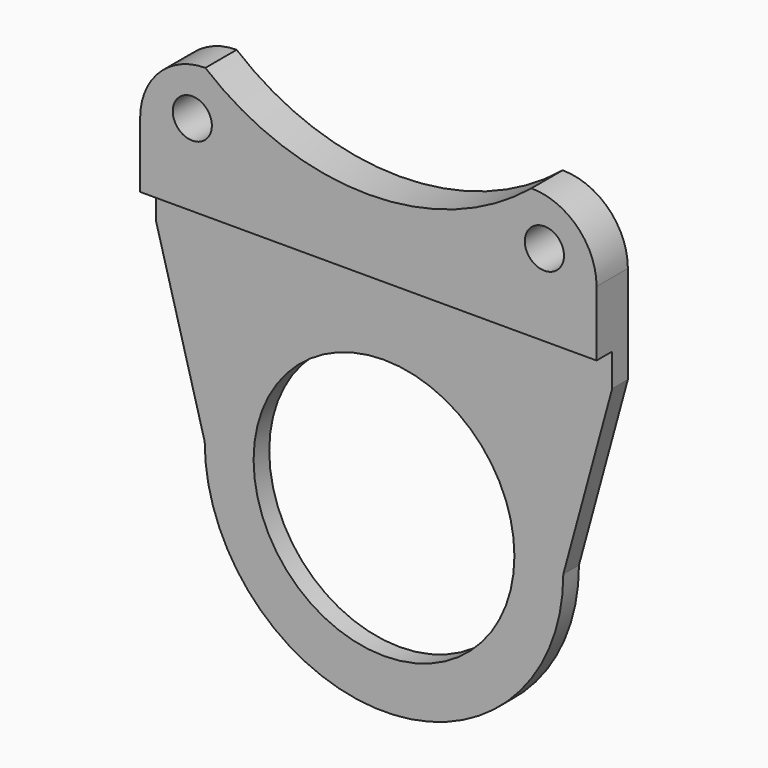
from build123d import *

# Parameters (mm, degrees)
F0_R     = 40
F0_R_2   = 6
F1_DEPTH = 12
F2_R     = 40
F3_DEPTH = 6


with BuildPart() as f1:
    # F0 (on Front) → F1 (new body)
    with BuildSketch(Plane.XZ):
        with BuildLine():
            ThreePointArc((0, 55), (38.890873, 38.890873), (55, 0))
            Line((55, 0), (70, 55))
            Line((70, 55), (0, 55))
        make_face()
        with BuildLine():
            ThreePointArc((-55, 0), (-38.890873, 38.890873), (0, 55))
            Line((0, 55), (-70, 55))
            Line((-70, 55), (-55, 0))
        make_face()
        with BuildLine():
            ThreePointArc((-55, 0), (0, -55), (55, 0))
            ThreePointArc((55, 0), (38.890873, 38.890873), (0, 55))
            ThreePointArc((0, 55), (-38.890873, 38.890873), (-55, 0))
        make_face()
        Circle(F0_R, mode=Mode.SUBTRACT)
        with BuildLine():
            Line((-70, 55), (0, 55))
            Line((0, 55), (70, 55))
            Line((70, 55), (70, 85))
            ThreePointArc((70, 85), (64.142136, 99.142136), (50, 105))
            ThreePointArc((50, 105), (0, 87.068359), (-50, 105))
            ThreePointArc((-50, 105), (-64.142136, 99.142136), (-70, 85))
            Line((-70, 85), (-70, 55))
        make_face()
        with Locations((-54, 90.049986)):
            Circle(F0_R_2, mode=Mode.SUBTRACT)
        with Locations((54, 90.049986)):
            Circle(F0_R_2, mode=Mode.SUBTRACT)
    extrude(amount=F1_DEPTH)

    # F2 (on face) → F3 (cut)
    with BuildSketch(Plane.XZ.offset(12)):
        with BuildLine():
            Line((-70, 55), (-55, 0))
            ThreePointArc((-55, 0), (0, -55), (55, 0))
            Line((55, 0), (70, 55))
            Line((70, 55), (70, 65))
            Line((70, 65), (0, 65))
            Line((0, 65), (-70, 65))
            Line((-70, 65), (-70, 55))
        make_face()
        Circle(F2_R, mode=Mode.SUBTRACT)
    extrude(amount=-F3_DEPTH, mode=Mode.SUBTRACT)


solid = f1.part
